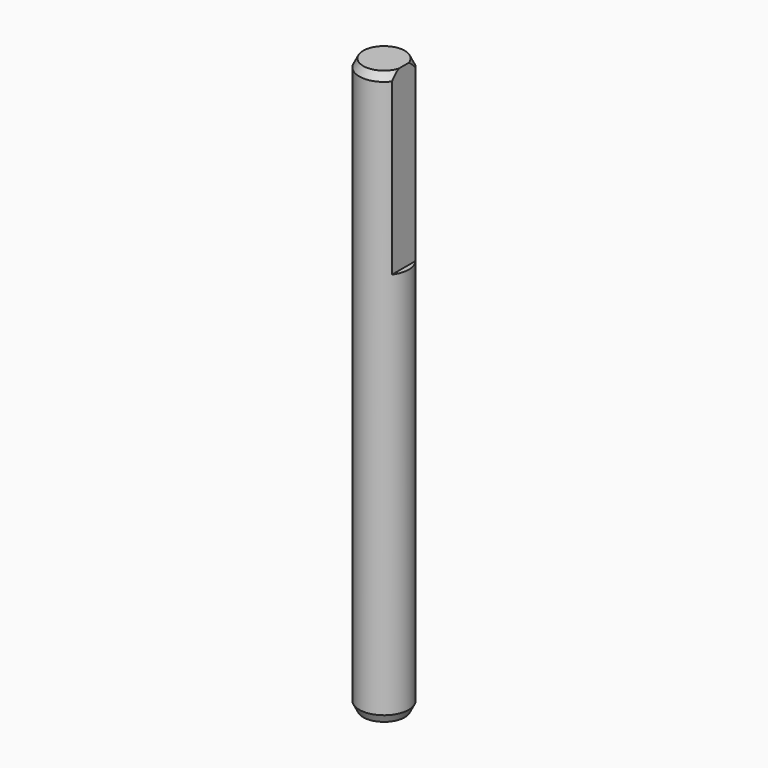
from build123d import *

# Parameters (mm, degrees)
SKETCH039_R      = 2.5
PAD023_DEPTH     = 58
POCKET003_DEPTH  = 18
CHAMFER002_SIZE2 = 0.4
CHAMFER002_SIZE  = 0.8


with BuildPart() as part:
    # Sketch039 → Pad023 (new body)
    with BuildSketch(Plane.XY):
        Circle(SKETCH039_R)
    extrude(amount=PAD023_DEPTH)

    # Sketch040 (on Face3 of Pad023) → Pocket003 (cut)
    with BuildSketch(Plane.XY.offset(58)):
        with BuildLine():
            ThreePointArc((2, -1.5), (2.5, 0), (2, 1.5))
            Line((2, 1.5), (2, -1.5))
        make_face()
    extrude(amount=-POCKET003_DEPTH, mode=Mode.SUBTRACT)

    # Chamfer002
    chamfer002_edges = [part.edges().sort_by_distance(p)[0] for p in [
        (-2.5, 0, 58),
        (-2.5, 0, 0),
    ]]
    chamfer002_side = part.faces().sort_by_distance((-2.5, 0, 29))[0]
    chamfer(chamfer002_edges, length=CHAMFER002_SIZE, length2=CHAMFER002_SIZE2, reference=chamfer002_side)


with BuildPart() as part_1:
    # Body012 placement: moved
    add(part.part.moved(Location((0, 0, 2.8))))


solid = part_1.part
